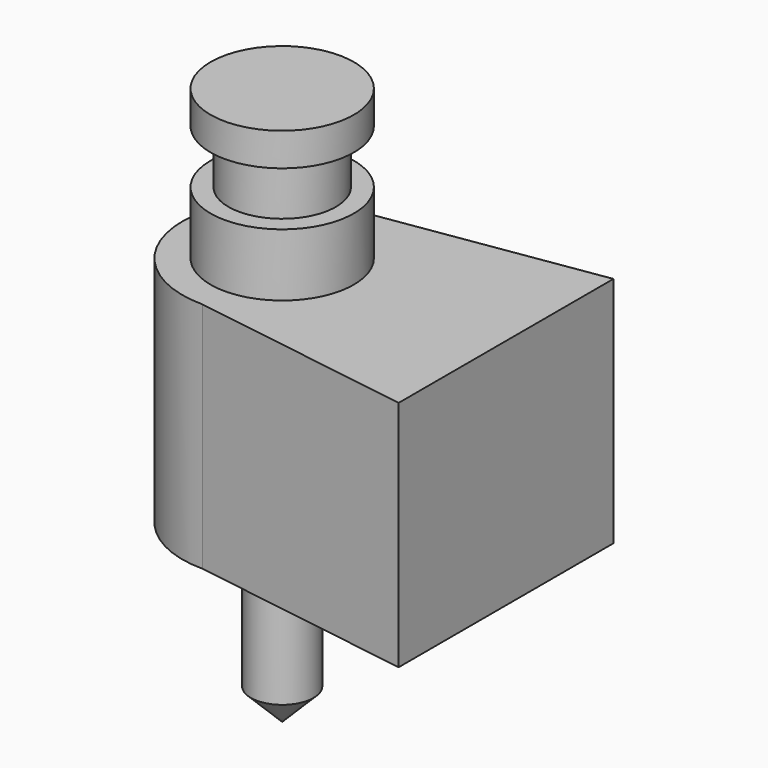
from build123d import *

# Parameters (mm, degrees)
F5_DEPTH = 26


with BuildPart() as f1:
    # F0 (on Front) → F1 (revolve)
    with BuildSketch(Plane.XZ):
        Polygon((0, 0), (-8, 0), (-8, -3.7), (-6, -3.7), (-6, -9.7), (-8, -9.7), (-8, -12.7), (-8, -16.7), (-11.15, -16.7), (-11.15, -42.7), (0, -42.7), align=None)
    revolve(axis=Axis((0, 0, -21.35), (0, 0, -1)))

    # F2 (on Front) → F3 (revolve)
    with BuildSketch(Plane.XZ):
        Polygon((0, -62.3), (0, -42.7), (-3.5, -42.7), (-3.5, -58.8), align=None)
    revolve(axis=Axis((0, 0, -52.5), (0, 0, 1)))

    # F4 (on face) → F5 (join, through all)
    with BuildSketch(Plane(origin=(0, 0, -42.7), x_dir=(1, 0, 0), z_dir=(0, 0, -1))):
        with BuildLine():
            ThreePointArc((0, 11.15), (11.15, 0), (0, -11.15))
            Line((0, -11.15), (25, -15))
            Line((25, -15), (25, 15))
            Line((25, 15), (0, 11.15))
        make_face()
    extrude(amount=-F5_DEPTH)


solid = f1.part
